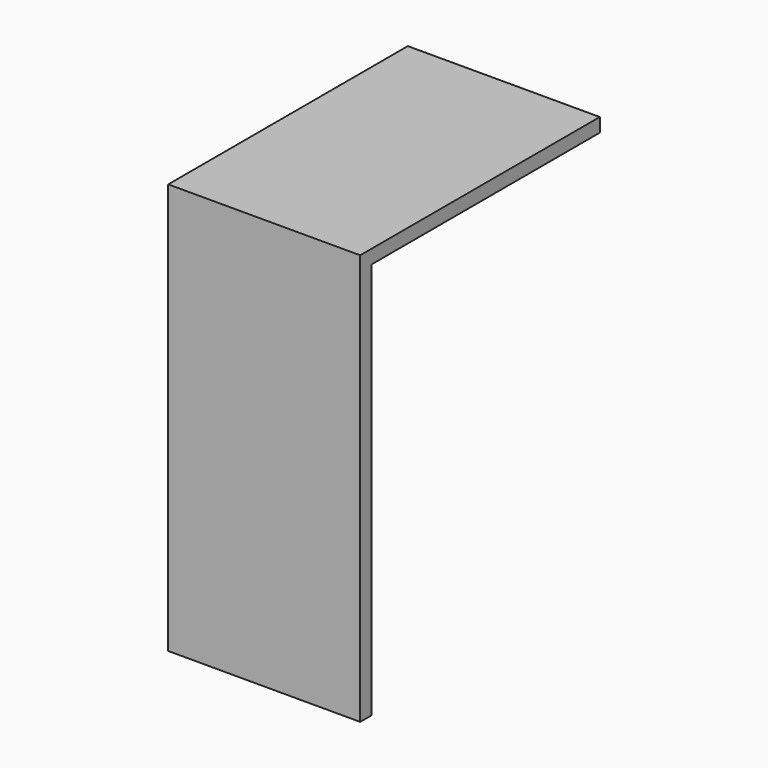
from build123d import *

# Parameters (mm, degrees)
F0_W     = 250
F0_H     = 517
F1_DEPTH = 18
F2_W     = 250
F2_H     = 18
F3_DEPTH = 390


with BuildPart() as f1:
    # F0 (on Front) → F1 (new body)
    with BuildSketch(Plane.XZ):
        with Locations((125, 258.5)):
            Rectangle(F0_W, F0_H)
    extrude(amount=F1_DEPTH)

    # F2 (on face) → F3 (join)
    with BuildSketch(Plane.XZ.offset(18)):
        with Locations((125, 526)):
            Rectangle(F2_W, F2_H)
    extrude(amount=-F3_DEPTH)


solid = f1.part
